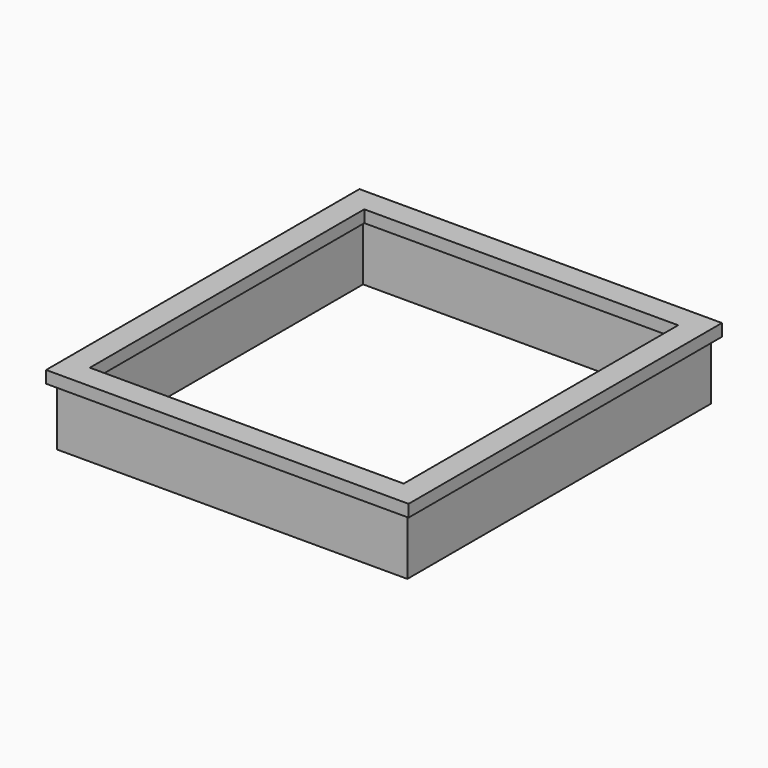
from build123d import *

# Parameters (mm, degrees)
F1_W     = 7315.2
F1_H     = 7924.8
F1_W_2   = 6807.2
F1_H_2   = 7416.8
F2_DEPTH = 1219.2
F3_W     = 7569.2
F3_H     = 8178.8
F3_W_2   = 6553.2
F3_H_2   = 7162.8
F4_DEPTH = 254


with BuildPart() as f2:
    # F1 (on face) → F2 (new body)
    with BuildSketch(Plane.XY):
        Rectangle(F1_W, F1_H)
        Rectangle(F1_W_2, F1_H_2, mode=Mode.SUBTRACT)
    extrude(amount=-F2_DEPTH)

    # F3 (on Top) → F4 (join)
    with BuildSketch(Plane.XY):
        Rectangle(F3_W, F3_H)
        Rectangle(F3_W_2, F3_H_2, mode=Mode.SUBTRACT)
    extrude(amount=F4_DEPTH)


solid = f2.part
